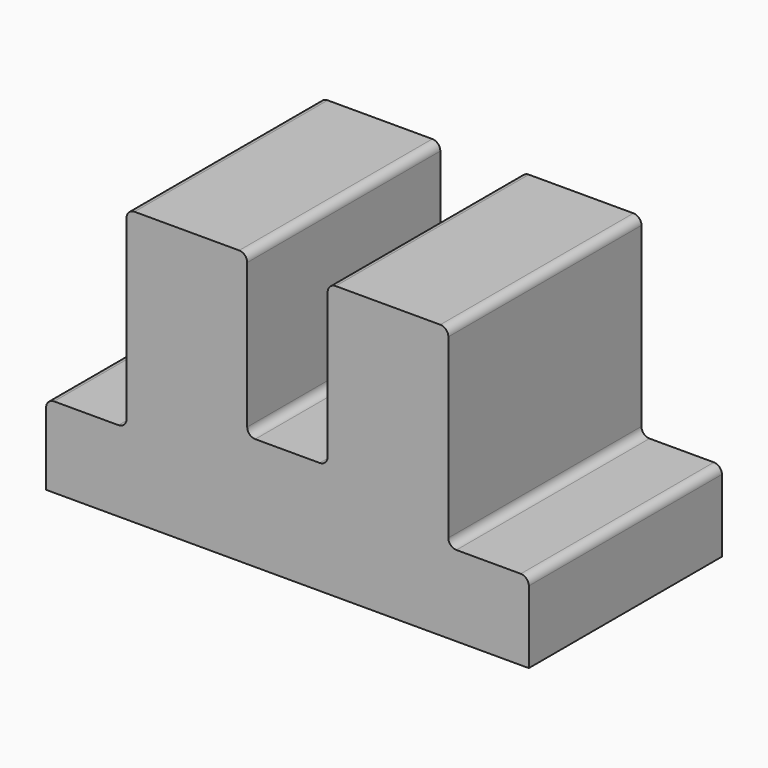
from build123d import *

# Parameters (mm, degrees)
F1_DEPTH = 75
F2_R     = 5


with BuildPart() as f1:
    # F0 (on Front) → F1 (new body, symmetric)
    with BuildSketch(Plane.XZ):
        Polygon((-71.73389, -43.765602), (-121.73389, -43.765602), (-121.73389, -93.765602), (178.26611, -93.765602), (178.26611, -43.765602), (128.26611, -43.765602), align=None)
        Polygon((-71.73389, 76.234398), (-71.73389, -43.765602), (128.26611, -43.765602), (128.26611, 76.234398), (53.26611, 76.234398), (53.26611, -23.765602), (3.26611, -23.765602), (3.26611, 76.234398), align=None)
    extrude(amount=F1_DEPTH, both=True)

    # F2
    f2_edges = [f1.edges().sort_by_distance(p)[0] for p in [
        (53.26611, 0, 76.234398),
        (3.26611, 0, 76.234398),
        (128.26611, 0, 76.234398),
        (-71.73389, 0, 76.234398),
        (-71.73389, 0, -43.765602),
        (-121.73389, 0, -43.765602),
        (128.26611, 0, -43.765602),
        (178.26611, 0, -43.765602),
        (3.26611, 0, -23.765602),
        (53.26611, 0, -23.765602),
    ]]
    fillet(f2_edges, radius=F2_R)


solid = f1.part
